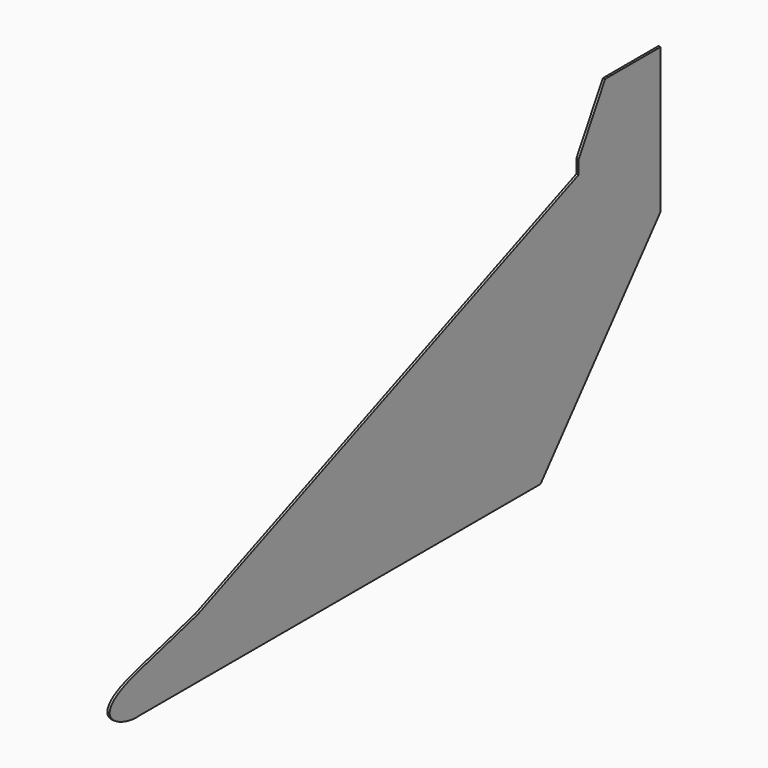
from build123d import *

# Parameters (mm, degrees)
PAD_DEPTH    = 1.5
PAD002_DEPTH = 1.5


with BuildPart() as part:
    # Sketch → Pad (new body)
    with BuildSketch(Plane.YZ):
        with BuildLine():
            Line((130.835557, 163.892767), (34.582098, 103.74693))
            Line((34.582098, 103.74693), (34.582098, 95.464721))
            Line((34.582098, 95.464721), (-226.199079, 25.588615))
            add(Edge.make_bspline(
                [(-225, 0), (-241.014422, -1.461855), (-270.021739, 13.743032), (-226.199079, 25.588615)],
                knots=[0, 0, 0, 0, 1, 1, 1, 1], degree=3))
            Line((-225, 0), (100, 0))
            Line((100, 0), (197.335557, 116))
            Line((197.335557, 116), (197.335557, 210))
            Line((197.335557, 210), (152.335557, 210))
            Line((152.335557, 210), (130.835557, 172.760908))
            Line((130.835557, 172.760908), (130.835557, 163.892767))
        make_face()
    extrude(amount=PAD_DEPTH)

    # CopySketch003 → Pad002 (join)
    with BuildSketch(Plane.YZ):
        with BuildLine():
            Line((130.835557, 163.989908), (-177.902788, 38.529567))
            Line((-177.902788, 38.529567), (-226.199079, 25.588615))
            add(Edge.make_bspline(
                [(-225, 0), (-241.014422, -1.461855), (-270.021739, 13.743032), (-226.199079, 25.588615)],
                knots=[0, 0, 0, 0, 1, 1, 1, 1], degree=3))
            Line((-225, 0), (100, 0))
            Line((100, 0), (197.335557, 116))
            Line((197.335557, 116), (197.335557, 210))
            Line((197.335557, 210), (152.335557, 210))
            Line((152.335557, 210), (130.835557, 172.760908))
            Line((130.835557, 172.760908), (130.835557, 163.989908))
        make_face()
    extrude(amount=PAD002_DEPTH)


solid = part.part
